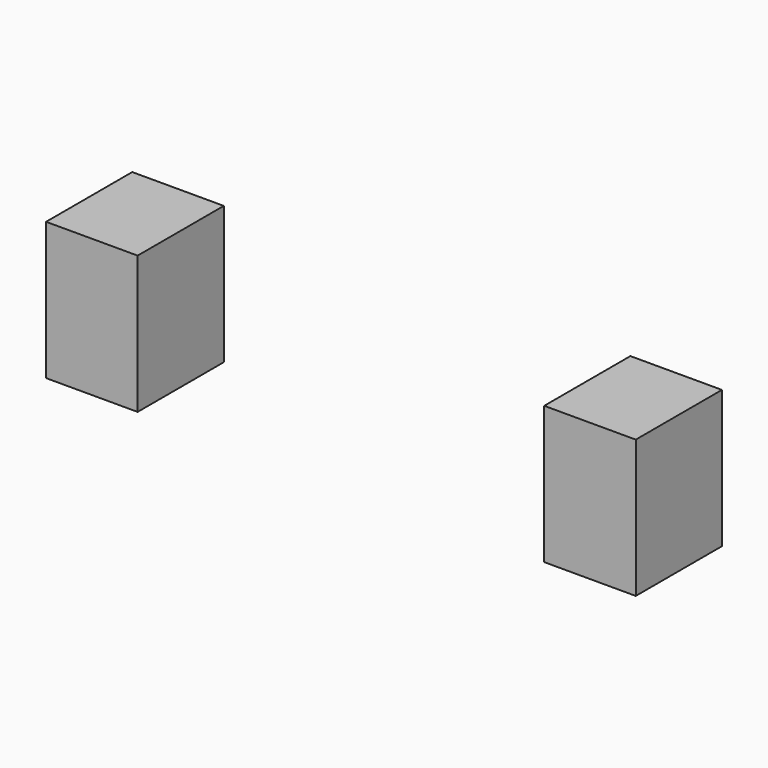
from build123d import *

# Parameters (mm, degrees)
F0_W     = 16.89651981
F0_H     = 19.8782589287
F1_DEPTH = 25.4


with BuildPart() as f1:
    # F0 (on Top) → F1 (new body)
    with BuildSketch(Plane.XY):
        with Locations((-45.9684785455, 24.8478250578)):
            Rectangle(F0_W, F0_H)
    f1_solid = extrude(amount=F1_DEPTH)

    # F2: F1 across plane
    add(f1_solid.mirror(Plane.YZ))


solid = f1.part
